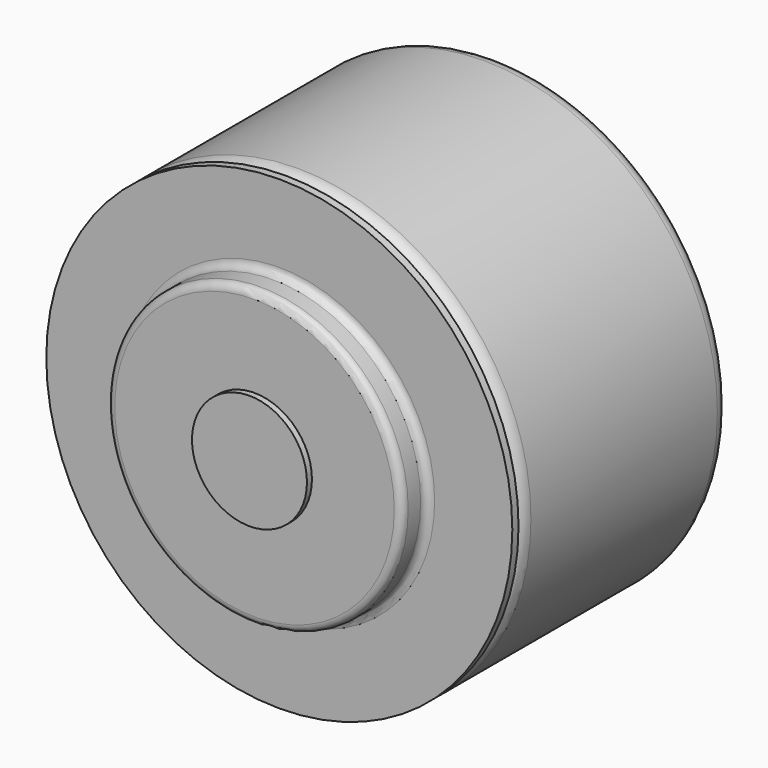
from build123d import *

# Parameters (mm, degrees)
F0_R     = 7.5
F1_DEPTH = 8.5
F2_R     = 0.5
F3_R     = 7.5
F4_DEPTH = 0.25
F5_R     = 4.75
F6_DEPTH = 1
F7_R     = 1.85
F8_DEPTH = 0.2
F9_R     = 0.25


with BuildPart() as f1:
    # F0 (on Front) → F1 (new body)
    with BuildSketch(Plane.XZ):
        Circle(F0_R)
    extrude(amount=F1_DEPTH)

    # F2
    f2_edges = [f1.edges().sort_by_distance(p)[0] for p in [
        (-7.5, -8.5, 0),
        (-7.5, 0, 0),
    ]]
    fillet(f2_edges, radius=F2_R)

    # F3 (on face) → F4 (join)
    with BuildSketch(Plane.XZ.offset(8.5)):
        Circle(F3_R)
    extrude(amount=F4_DEPTH)

    # F5 (on face) → F6 (join)
    with BuildSketch(Plane.XZ.offset(8.75)):
        Circle(F5_R)
    extrude(amount=F6_DEPTH)

    # F7 (on face) → F8 (join)
    with BuildSketch(Plane.XZ.offset(9.75)):
        Circle(F7_R)
    extrude(amount=F8_DEPTH)

    # F9
    f9_edges = [f1.edges().sort_by_distance(p)[0] for p in [
        (-4.75, -8.75, 0),
        (-4.75, -9.75, 0),
    ]]
    fillet(f9_edges, radius=F9_R)


solid = f1.part
